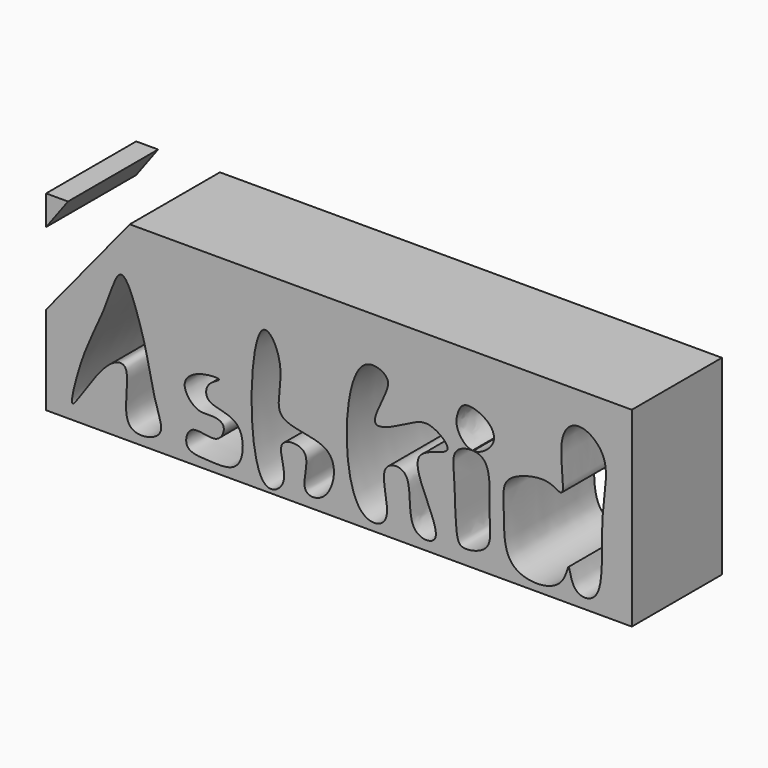
from build123d import *

# Parameters (mm, degrees)
F0_W     = 130
F0_H     = 42.371591828
F1_DEPTH = 25
F3_DEPTH = 25


with BuildPart() as f1:
    # F0 (on Front) → F1 (new body)
    with BuildSketch(Plane.XZ):
        with Locations((-10.3494846661, 0)):
            Rectangle(F0_W, F0_H)
        with BuildLine():
            add(Edge.make_bspline(
                [(-69.4275648242, -17.9439997743), (-70.0066787547, -17.951573777), (-68.1225045924, -10.4472605536), (-65.6639382123, -4.0173364253), (-61.8240882068, 3.5783381374), (-58.7051659024, 14.4711562572), (-54.4293150344, 2.5317864271), (-52.7853652933, -3.6511387094), (-51.1677612807, -12.3098143944), (-48.3174143867, -18.5754014736), (-60.0646333046, -20.8548253532), (-55.5396215577, -5.4705547934), (-62.8316177006, -7.0377404983), (-68.6185852257, -17.9334194492), (-69.4275648242, -17.9439997743)],
                knots=[0, 0, 0, 0, 0.0757282761, 0.1612801051, 0.252981553, 0.3318695326, 0.4175891948, 0.5009849054, 0.5900310312, 0.658631973, 0.7341956463, 0.8329864325, 0.894213164, 1, 1, 1, 1], degree=3))
        make_face(mode=Mode.SUBTRACT)
        with BuildLine():
            add(Edge.make_bspline(
                [(-36.9344364151, -2.6914628612), (-36.9892961148, -2.3654036857), (-42.0339308576, -2.5295490199), (-45.8942392554, -5.9933214096), (-42.1160844213, -10.776853995), (-38.823212773, -10.1138843625), (-35.0429822393, -10.8924497782), (-37.1106348523, -16.0464404665), (-43.4918369439, -12.7238736942), (-45.1509136645, -19.1221843607), (-38.9793196162, -19.2577992291), (-31.4081143454, -19.8424160064), (-31.162680369, -8.2064217365), (-40.1214665254, -8.8353938382), (-39.9760736498, -4.0049266425), (-36.8911409839, -2.9487896903), (-36.9344364151, -2.6914628612)],
                knots=[0, 0, 0, 0, 0.0716537469, 0.1432456329, 0.2153885049, 0.2775255004, 0.3345096178, 0.3962642166, 0.4748928702, 0.5395623573, 0.6154475366, 0.7015557636, 0.7958299248, 0.8832492917, 0.9434506591, 1, 1, 1, 1], degree=3))
        make_face(mode=Mode.SUBTRACT)
        with BuildLine():
            add(Edge.make_bspline(
                [(-27.3382124125, 10.0673131163), (-30.3701595864, 7.4608169799), (-31.0595506867, -24.6429838067), (-20.4186029986, -18.1824915508), (-25.5871901185, -9.4267304897), (-15.3776622966, -9.4462697445), (-19.9131144847, -19.1559221002), (-12.1988721952, -19.2634479343), (-9.4368162171, -6.1703392301), (-26.6385645171, -7.8715442682), (-21.3884565919, 3.7095606653), (-25.8832122038, 11.3181437557), (-27.3382124125, 10.0673131163)],
                knots=[0, 0, 0, 0, 0.1863914911, 0.2598501103, 0.3521739781, 0.4275715734, 0.5187049158, 0.5880350008, 0.6897803146, 0.8028576313, 0.9105526439, 1, 1, 1, 1], degree=3))
        make_face(mode=Mode.SUBTRACT)
        with BuildLine():
            add(Edge.make_bspline(
                [(-5.3750223518, 10.0673131163), (-9.5094798263, 5.7354546812), (-9.9743426546, -21.1152384941), (2.8966613143, -19.288205824), (-2.7998367103, -6.9499629461), (6.9580930705, -6.0559531956), (3.7345827453, -19.4158042412), (15.4024553064, -19.5719256123), (1.6045094212, -1.2812719116), (16.9246187722, -1.2374396713), (9.4824425705, 4.9452707635), (5.0334196809, 2.187873636), (-4.8880998064, -2.5160036689), (0.4411702743, 6.8089985162), (1.0074966632, 10.4630642656), (-3.5639445443, 11.964861398), (-5.3750223518, 10.0673131163)],
                knots=[0, 0, 0, 0, 0.1361463177, 0.1968116589, 0.2774916842, 0.3311528363, 0.414322609, 0.4687805309, 0.567734764, 0.6372901329, 0.6946002699, 0.7574982099, 0.8247177661, 0.8927786255, 0.9403618066, 1, 1, 1, 1], degree=3))
        make_face(mode=Mode.SUBTRACT)
        with BuildLine():
            add(Edge.make_bspline(
                [(15.9859528259, 0.7302089854), (14.6399825769, -0.4768046859), (15.579512466, -5.4319184539), (15.3503958089, -16.4528899622), (17.2441881165, -18.4875835887), (24.0761091126, -16.8600368393), (22.542037808, -9.3218181732), (23.7209350071, 0.4953823488), (20.2753477416, 1.6580607493), (19.4804670847, 1.7252247134)],
                knots=[0, 0, 0, 0, 0.1402363922, 0.3272805278, 0.4090935907, 0.5366769735, 0.6870286914, 0.8667395175, 0.9173162055, 0.9173162055, 0.9173162055, 0.9173162055], degree=3))
            add(Edge.make_bspline(
                [(19.3046930763, 1.7369986813), (18.0562296041, 1.7990404839), (16.743872213, 1.4098815581), (15.9859528259, 0.7302089854)],
                knots=[0.9210325188, 0.9210325188, 0.9210325188, 0.9210325188, 1, 1, 1, 1], degree=3))
            add(Edge.make_bspline(
                [(17.6666327742, 10.0673131163), (16.701370661, 9.7579234139), (15.8067104885, 7.7475531563), (15.4592552337, 4.789792741), (17.7170550585, 1.8962491859), (19.3046930765, 1.7369986836)],
                knots=[0, 0, 0, 0, 0.1379373472, 0.2803984239, 0.456052692, 0.456052692, 0.456052692, 0.456052692], degree=3))
            add(Edge.make_bspline(
                [(19.4804670847, 1.7252247134), (21.1746867607, 1.6667310285), (24.9600693594, 4.4510067746), (23.3145567258, 8.8908353745), (18.99623253, 10.493481788), (17.6666327742, 10.0673131163)],
                knots=[0.462487177, 0.462487177, 0.462487177, 0.462487177, 0.6472532003, 0.8099982786, 1, 1, 1, 1], degree=3))
        make_face(mode=Mode.SUBTRACT)
        with BuildLine():
            add(Edge.make_bspline(
                [(36.9030086785, 0.7302089854), (35.3991096804, 1.329881376), (31.6838172319, 1.0609909086), (25.60554454, -1.4564700845), (26.5948249754, -7.9228091229), (25.6650303255, -20.101867691), (39.7065312387, -20.217520977), (40.6733626642, -11.5904312775), (41.2426184672, -19.231698643), (49.1084324398, -19.243205655), (47.0019750817, -1.9047709145), (50.5783616349, 9.9900311661), (42.7151118537, 15.6963985086), (37.5631944278, 10.7470943273), (40.5576489575, -1.9191818498), (37.9126947838, 0.3276015753), (36.9030086785, 0.7302089854)],
                knots=[0, 0, 0, 0, 0.0621172335, 0.1260752737, 0.1926268033, 0.2796875271, 0.3659515887, 0.4227628766, 0.4780370842, 0.5343355699, 0.6413899359, 0.7377148394, 0.8083506254, 0.8721034639, 0.958295798, 1, 1, 1, 1], degree=3))
        make_face(mode=Mode.SUBTRACT)
    extrude(amount=F1_DEPTH)

    # F2 (on face) → F3 (cut)
    with BuildSketch(Plane.XZ.offset(25)):
        Polygon((-50.799742341, 28.4879039973), (-62.4126493931, 32.1169383824), (-89.0860334039, -3.9919354022), (-81.7887487011, -9.3823908972), align=None)
    extrude(amount=-F3_DEPTH, mode=Mode.SUBTRACT)


solid = f1.part
